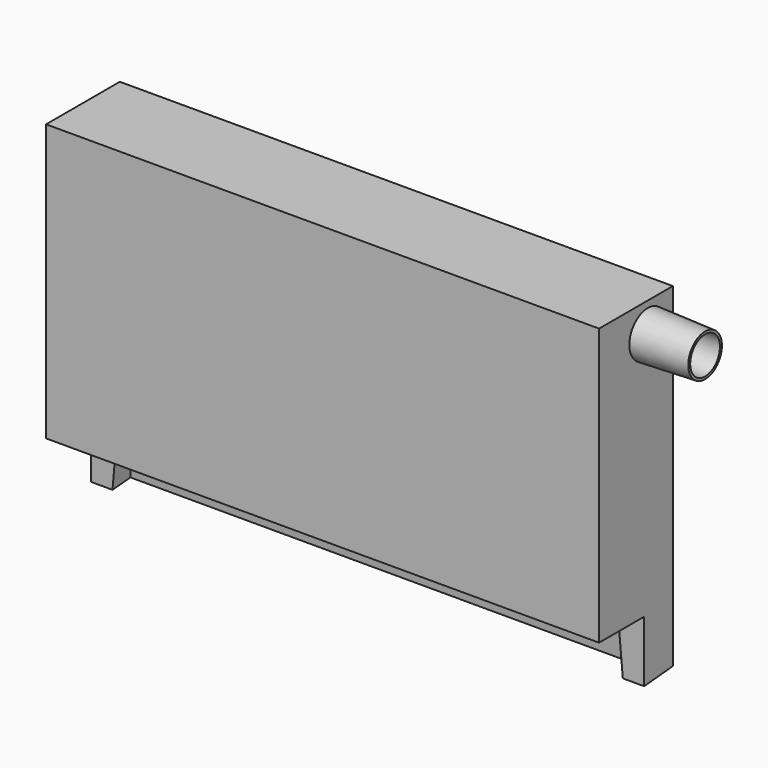
from build123d import *

# Parameters (mm, degrees)
F0_W      = 152.4
F0_H      = 72.2600477695
F0_H_2    = 3.9399522305
F1_DEPTH  = 25.4
F2_R      = 4.572
F3_DEPTH  = 128.27
F2_R_2    = 6.35
F4_DEPTH  = 25.4
F4_TAPER  = 2
F5_W      = 142.3907577991
F5_H      = 14.0293889403
F6_DEPTH  = 72.39
F7_W      = 41.4440333843
F7_H      = 42.0196391642
F8_DEPTH  = 34.29
F9_W      = 142.3907577991
F9_H      = 4.1925401151
F10_DEPTH = 25.4
F11_W     = 142.1246004887
F11_H     = 6.9151699136
F12_DEPTH = 25.4
F12_TAPER = 5
F13_W     = 184.7909539938
F13_H     = 75.5005329847
F14_DEPTH = 12.7


with BuildPart() as f1:
    # F0 (on Front) → F1 (new body)
    with BuildSketch(Plane.XZ):
        with Locations((0, 1.9699761152)):
            Rectangle(F0_W, F0_H)
        with Locations((0, -36.1300238848)):
            Rectangle(F0_W, F0_H_2)
    extrude(amount=F1_DEPTH)

    # F2 (on face) → F3 (cut)
    with BuildSketch(Plane.YZ.offset(76.2)):
        with Locations((-8.627731353, 29.9320761114)):
            Circle(F2_R)
    extrude(amount=-F3_DEPTH, mode=Mode.SUBTRACT)

    # F2 (on face) → F4 (join)
    with BuildSketch(Plane.YZ.offset(76.2)):
        with Locations((-8.627731353, 29.9320761114)):
            Circle(F2_R_2)
        with Locations((-8.627731353, 29.9320761114)):
            Circle(F2_R, mode=Mode.SUBTRACT)
    extrude(amount=F4_DEPTH, taper=F4_TAPER)

    # F5 (on face) → F6 (cut)
    with BuildSketch(Plane(origin=(0, 0, -38.1), x_dir=(1, 0, 0), z_dir=(0, 0, -1))):
        with Locations((0, 12.7)):
            Rectangle(F5_W, F5_H)
    extrude(amount=-F6_DEPTH, mode=Mode.SUBTRACT)

    # F7 (on Front) → F8 (cut, symmetric)
    with BuildSketch(Plane.XZ):
        with Locations((112.7125099301, 31.2269236892)):
            Rectangle(F7_W, F7_H)
    extrude(amount=F8_DEPTH, both=True, mode=Mode.SUBTRACT)

    # F9 (on face) → F10 (join)
    with BuildSketch(Plane(origin=(0, 0, -38.1), x_dir=(1, 0, 0), z_dir=(0, 0, -1))):
        Polygon((-71.1953788996, 9.877845645), (-76.2, 9.877845645), (-76.2, 0), (76.2, 0), (76.2, 9.877845645), (71.1953788996, 9.877845645), (71.1953788996, 5.6853055298), (-71.1953788996, 5.6853055298), align=None)
        with Locations((0, 7.7815755874)):
            Rectangle(F9_W, F9_H)
    extrude(amount=F10_DEPTH)

    # F11 (on face) → F12 (cut)
    with BuildSketch(Plane(origin=(0, 0, -63.5), x_dir=(1, 0, 0), z_dir=(0, 0, -1))):
        with Locations((0, 6.4202606881)):
            Rectangle(F11_W, F11_H)
        with Locations((0, 13.3354306018)):
            Rectangle(F11_W, F11_H)
    extrude(amount=-F12_DEPTH, taper=F12_TAPER, mode=Mode.SUBTRACT)

    # F13 (on face) → F14 (cut, symmetric)
    with BuildSketch(Plane(origin=(0, -8.4535005215, -0.7395854627), x_dir=(1, 0, 0), z_dir=(0, -0.9961946981, -0.0871557427))):
        with Locations((0, -91.6571170092)):
            Rectangle(F13_W, F13_H)
        with Locations((0, -91.6571170092)):
            Rectangle(F13_W, F13_H)
    extrude(amount=F14_DEPTH, both=True, mode=Mode.SUBTRACT)


solid = f1.part
